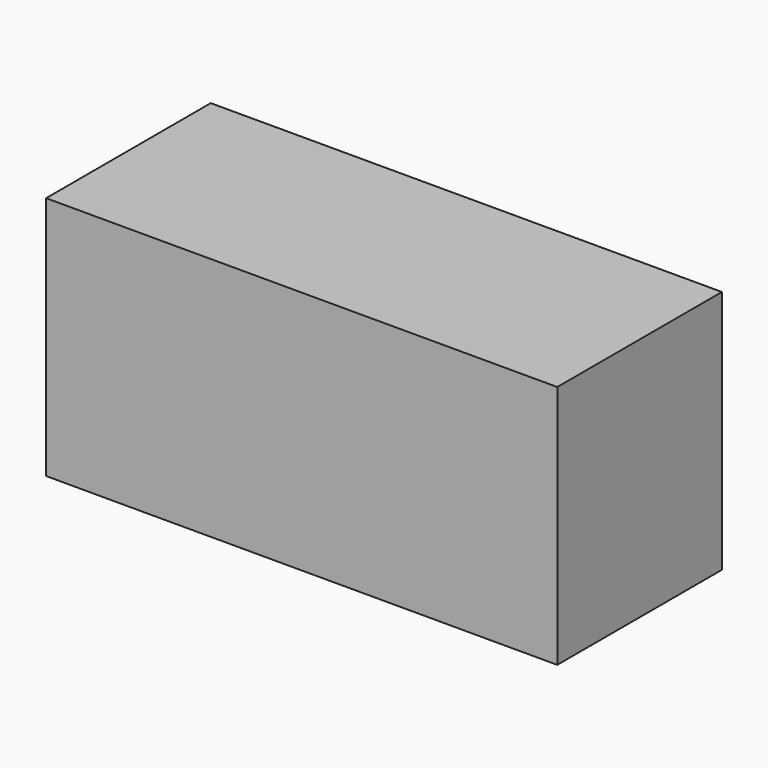
from build123d import *

# Parameters (mm, degrees)
BOX_W        = 6060
BOX_H        = 2440
BOX_DEPTH    = 2900
BOX001_W     = 5900
BOX001_H     = 2350
BOX001_DEPTH = 2700
BOX002_W     = 1200
BOX002_H     = 2350
BOX002_DEPTH = 900
BOX003_W     = 1200
BOX003_H     = 2350
BOX003_DEPTH = 1500
BOX004_W     = 600
BOX004_H     = 1200
BOX004_DEPTH = 2700
BOX005_W     = 1200
BOX005_H     = 1200
BOX005_DEPTH = 2700


with BuildPart() as obj1:
    # Box → Box (new body)
    with BuildSketch(Plane(origin=(-80, -80, -80), x_dir=(1, 0, 0), z_dir=(0, 0, 1))):
        with Locations((3030, 1220)):
            Rectangle(BOX_W, BOX_H)
    extrude(amount=BOX_DEPTH)


with BuildPart() as obj2:
    # Box001 → Box001 (new body)
    with BuildSketch(Plane.XY):
        with Locations((2950, 1175)):
            Rectangle(BOX001_W, BOX001_H)
    extrude(amount=BOX001_DEPTH)


with BuildPart() as bed:
    # Box002 → Box002 (new body)
    with BuildSketch(Plane.XY.offset(1800)):
        with Locations((600, 1175)):
            Rectangle(BOX002_W, BOX002_H)
    extrude(amount=BOX002_DEPTH)


with BuildPart() as desk:
    # Box003 → Box003 (new body)
    with BuildSketch(Plane.XY):
        with Locations((600, 1175)):
            Rectangle(BOX003_W, BOX003_H)
    extrude(amount=BOX003_DEPTH)


with BuildPart() as obj3:
    # Box004 → Box004 (new body)
    with BuildSketch(Plane(origin=(3900, 1100, 0), x_dir=(1, 0, 0), z_dir=(0, 0, 1))):
        with Locations((300, 600)):
            Rectangle(BOX004_W, BOX004_H)
    extrude(amount=BOX004_DEPTH)


with BuildPart() as bathroom:
    # Box005 → Box005 (new body)
    with BuildSketch(Plane(origin=(4600, 1100, 0), x_dir=(1, 0, 0), z_dir=(0, 0, 1))):
        with Locations((600, 600)):
            Rectangle(BOX005_W, BOX005_H)
    extrude(amount=BOX005_DEPTH)


solid = Compound([obj1.part, obj2.part, bed.part, desk.part, obj3.part, bathroom.part])
